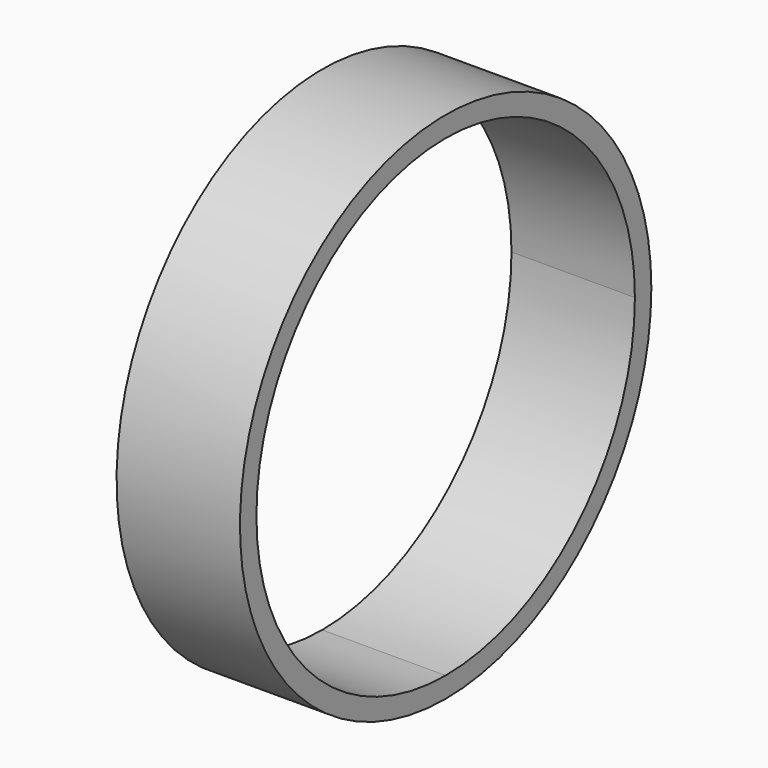
from build123d import *

# Parameters (mm, degrees)
F1_DEPTH = 7.62


with BuildPart() as f1:
    # F0 (on Right) → F1 (new body)
    with BuildSketch(Plane.YZ):
        with BuildLine():
            ThreePointArc((15.875, 21.59), (-11.22532, 32.81532), (0, 5.715))
            ThreePointArc((0, 5.715), (11.22532, 10.36468), (15.875, 21.59))
        make_face()
        with BuildLine():
            ThreePointArc((14.605, 21.59), (10.327295, 11.262705), (0, 6.985))
            ThreePointArc((0, 6.985), (-10.327295, 31.917295), (14.605, 21.59))
        make_face(mode=Mode.SUBTRACT)
    extrude(amount=F1_DEPTH)


solid = f1.part
